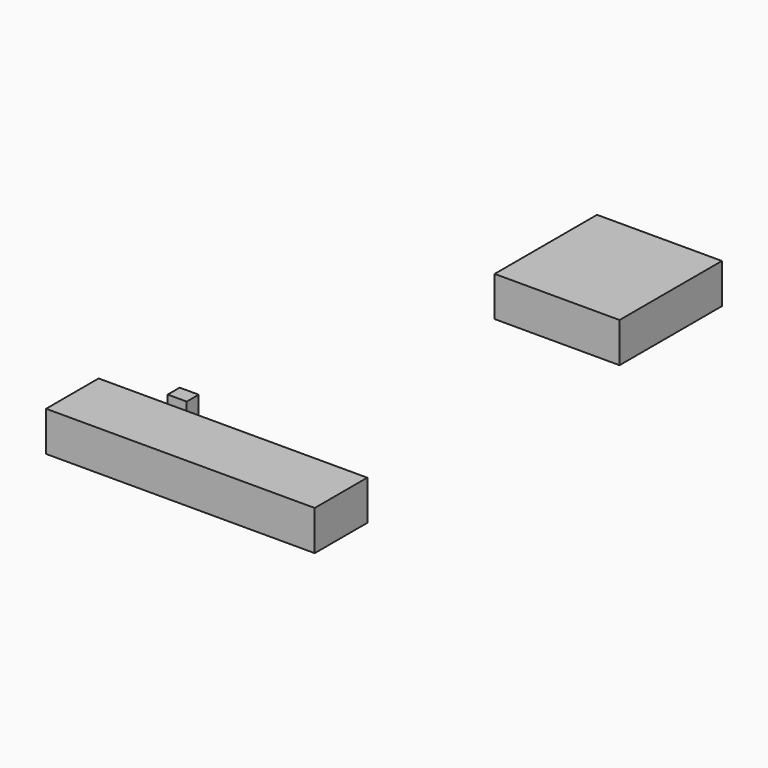
from build123d import *

# Parameters (mm, degrees)
F0_W     = 70.122972
F0_H     = 71.83443
F0_W_2   = 10.692615
F0_H_2   = 8.410707
F0_W_3   = 150.824748
F0_H_3   = 36.863581
F1_DEPTH = 22.352


with BuildPart() as f1:
    # F0 (on Top) → F1 (new body)
    with BuildSketch(Plane.XY):
        with Locations((35.061486, 35.917215)):
            Rectangle(F0_W, F0_H)
        with Locations((-35.019597, -174.787513)):
            Rectangle(F0_W_2, F0_H_2)
        with Locations((1.833972, -204.395018)):
            Rectangle(F0_W_3, F0_H_3)
    extrude(amount=F1_DEPTH)


solid = f1.part
